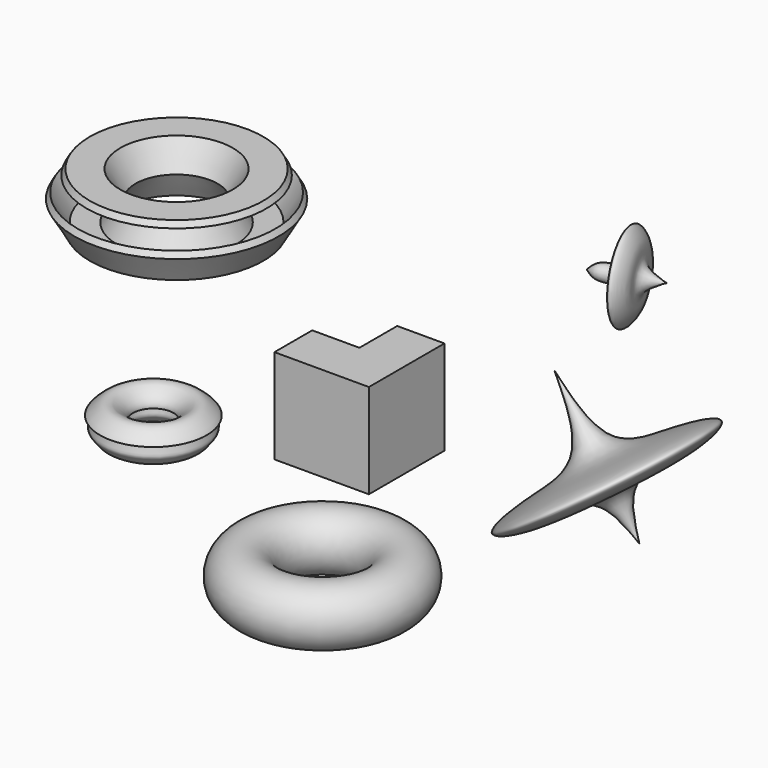
from build123d import *

# Parameters (mm, degrees)
F0_W     = 50
F0_H     = 50
F1_DEPTH = 50
F2_W     = 50
F2_H     = 50
F3_DEPTH = 25
F4_R     = 7.3632964055
F7_DEPTH = 15
F8_R     = 15.208187922
F14_T    = -3


with BuildPart() as f1:
    # F0 (on Top) → F1 (new body)
    with BuildSketch(Plane.XY):
        Rectangle(F0_W, F0_H)
    extrude(amount=F1_DEPTH)

    # F2 (on face) → F3 (cut)
    with BuildSketch(Plane.XY.offset(50)):
        with Locations((-25, 25)):
            Rectangle(F2_W, F2_H)
    extrude(amount=-F3_DEPTH, mode=Mode.SUBTRACT)

    # F4 (on face) → F7 (cut)
    with BuildSketch(Plane(origin=(0, 0, 0), x_dir=(-1, 0, 0), z_dir=(0, 1, 0))):
        with Locations((12.5, 37.5)):
            Circle(F4_R)
    extrude(amount=-F7_DEPTH, mode=Mode.SUBTRACT)


with BuildPart() as f6:
    # F5 (on Front) → F6 (revolve)
    with BuildSketch(Plane.XZ):
        with BuildLine():
            Line((148.2677012682, 6.8130916916), (103.0411198735, 73.2808411121))
            add(Edge.make_bspline(
                [(103.0411198735, 73.2808411121), (109.7608337019, 60.5349091077), (122.1961076109, 36.9477207616), (99.7918736994, 19.1457862173), (79.9178743582, -2.0046815316), (106.987280773, 6.2980180184), (126.4983069916, 26.8211439045), (141.0617696071, 13.4359979189), (148.2677012682, 6.8130916916)],
                knots=[0, 0, 0, 0, 0.2040779383, 0.377659693, 0.5210073241, 0.6605758398, 0.8320545486, 1, 1, 1, 1], degree=3))
        make_face()
    revolve(axis=Axis((125.6544105709, 0, 40.0469664019), (0.5625525061, 0, -0.8267615605)))


with BuildPart() as f9:
    # F8 (on Front) → F9 (revolve)
    with BuildSketch(Plane.XZ):
        with Locations((-53.512673825, -62.6467764378)):
            Circle(F8_R)
    revolve(axis=Axis((-19.5294208825, 0, -64.0312787145), (0, 0, -1)))


with BuildPart() as f11:
    # F10 (on Front) → F11 (revolve)
    with BuildSketch(Plane.XZ):
        with BuildLine():
            add(Edge.make_bspline(
                [(-126.7593502998, -11.0469199717), (-129.0708167425, -10.2744043268), (-132.8202651923, -11.5140680915), (-139.083309172, -17.9811899886), (-134.1623649972, -16.3418286529), (-137.3843287965, -22.5420819628), (-134.1930439902, -24.8937600983), (-132.9946294505, -28.2881053226), (-125.0989953133, -29.5751198942), (-122.8534796947, -25.4890342887), (-120.0719063757, -23.4064877427), (-122.2451832593, -16.7402067043), (-119.7480987378, -20.4894980416), (-119.1398875869, -16.238052509), (-124.0225652321, -11.9615814363), (-126.7593502998, -11.0469199717)],
                knots=[0, 0, 0, 0, 0.0967151255, 0.1894453217, 0.2389226159, 0.3210313727, 0.3910028495, 0.4598721162, 0.5572927888, 0.6334569888, 0.7034285029, 0.7815504626, 0.8302483605, 0.8854889233, 1, 1, 1, 1], degree=3))
        make_face()
    revolve(axis=Axis((-109.1105863452, 0, -19.3332284689), (0, 0, -1)))


with BuildPart() as f13:
    # F12 (on Front) → F13 (revolve)
    with BuildSketch(Plane.XZ):
        Polygon((-142.7724337001, 73.9684551954), (-126.6183281522, 73.9684551954), (-118.5412753783, 87.9583209753), (-126.6183281522, 101.9481867552), (-142.7724337001, 101.9481867552), (-150.849486474, 87.9583209753), align=None)
    revolve(axis=Axis((-96.8151167035, 0, 86.9897902012), (0, 0, -1)))

    # F14
    f14_openings = [f13.faces().sort_by_distance(p)[0] for p in [
        (-46.819273, 0, 94.953254),
    ]]
    offset(amount=F14_T, openings=f14_openings)


with BuildPart() as f16:
    # F15 (on Top) → F16 (revolve)
    with BuildSketch(Plane.XY):
        with BuildLine():
            Line((3.1888849348, 199.655079875), (-30.4829593356, 188.4509896141))
            add(Edge.make_bspline(
                [(-30.4829593356, 188.4509896141), (-28.4882702351, 187.4289662785), (-24.1522073935, 185.2072880191), (-12.5820079287, 191.0724799721), (-11.0751325998, 178.6426600244), (-5.9676449381, 169.4828121924), (-1.4890325943, 183.1824425857), (-7.9835736699, 189.8286221356), (2.0634949934, 198.9640387605), (3.1888849348, 199.655079875)],
                knots=[0, 0, 0, 0, 0.1217396432, 0.2646381048, 0.4144376138, 0.5336151298, 0.6762163305, 0.8114052701, 0.972957979, 0.972957979, 0.972957979, 0.972957979], degree=3))
        make_face()
    revolve(axis=Axis((-13.4861981903, 194.1065528938, 0), (0.9488510387, 0.3157240986, 0)))


with BuildPart() as f16b:
    # F15 (on Top) → F16, piece 2 (revolve)
    with BuildSketch(Plane.XY):
        with BuildLine():
            add(Edge.make_bspline(
                [(3.1888849348, 199.655079875), (3.3772619586, 199.7707520199), (3.4439124569, 199.7664340967), (3.5105629551, 199.7621161734)],
                knots=[0.972957979, 0.972957979, 0.972957979, 0.972957979, 1, 1, 1, 1], degree=3))
            Line((3.1888849348, 199.655079875), (3.5105629551, 199.7621161734))
        make_face()
    revolve(axis=Axis((-13.4861981903, 194.1065528938, 0), (0.9488510387, 0.3157240986, 0)))


solid = Compound([f1.part, f6.part, f9.part, f11.part, f13.part, f16.part, f16b.part])
